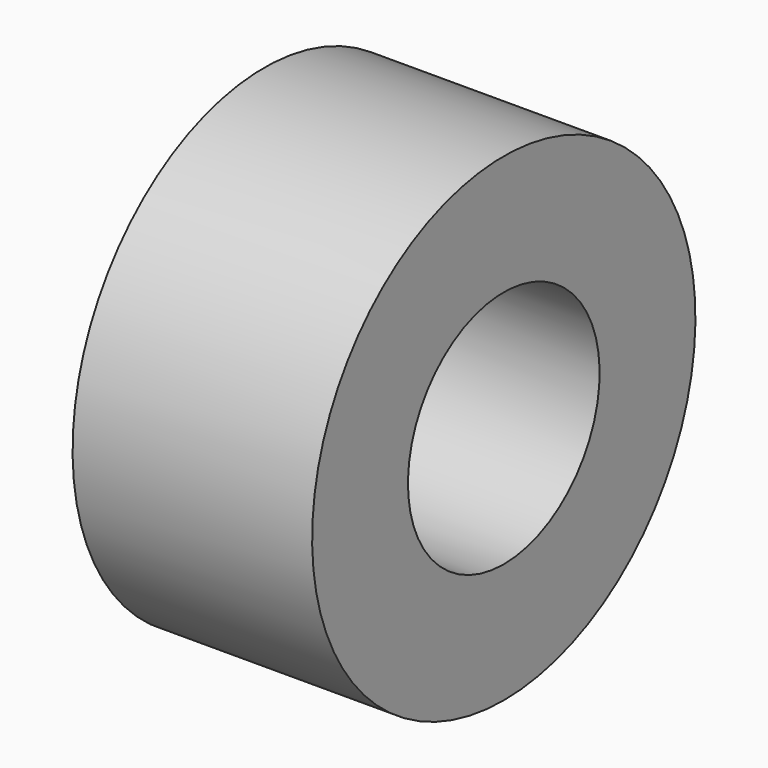
from build123d import *

# Parameters (mm, degrees)
CYLINDER015_R          = 2.5
CYLINDER015_DEPTH      = 25
CYLINDER014_R          = 5
CYLINDER014_DEPTH      = 5
CUT009_PLACEMENT_ANGLE = 90


with BuildPart() as rotor005:
    # Cylinder015 → Cylinder015 (new body)
    with BuildSketch(Plane(origin=(25, 25, 43), x_dir=(1, 0, 0), z_dir=(0, 0, 1))):
        Circle(CYLINDER015_R)
    extrude(amount=CYLINDER015_DEPTH)


with BuildPart() as e:
    # Cylinder014 → Cylinder014 (new body)
    with BuildSketch(Plane(origin=(25, 25, 49), x_dir=(1, 0, 0), z_dir=(0, 0, 1))):
        Circle(CYLINDER014_R)
    extrude(amount=CYLINDER014_DEPTH)

    # Cut009: cut Rotor005
    add(rotor005.part, mode=Mode.SUBTRACT)


with BuildPart() as e_1:
    # Cut009 placement: moved
    add(e.part.moved(Location((0, -22.5, 55))).rotate(Axis((0, -22.5, 55), (0, 1, 0)), CUT009_PLACEMENT_ANGLE))


solid = e_1.part
